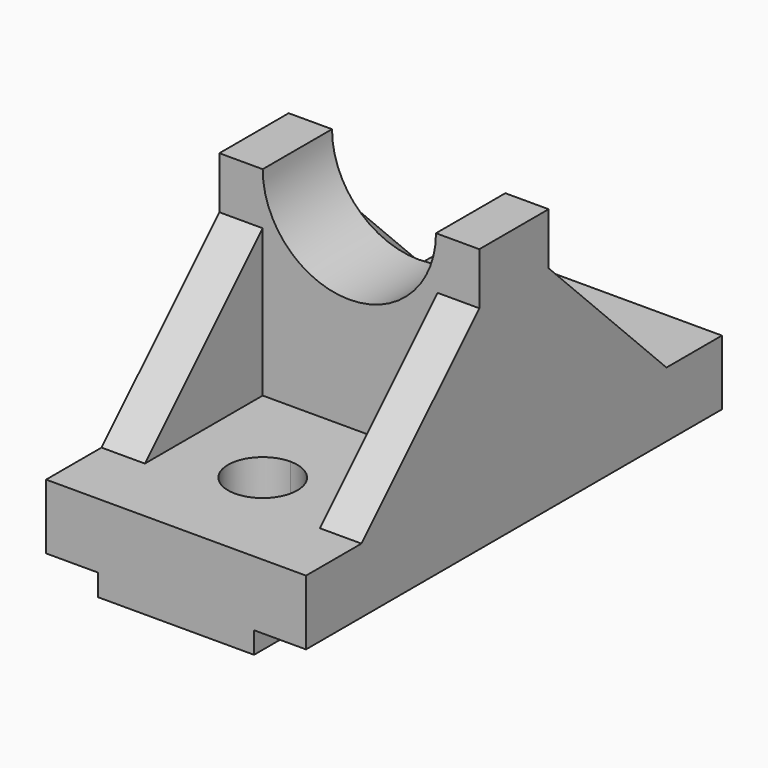
from build123d import *

# Parameters (mm, degrees)
F0_W           = 60
F0_H           = 120
F1_DEPTH       = 20
F3_W           = 12
F3_H           = 120
F4_DEPTH       = 5
F5_R           = 8
F6_DEPTH       = 45.4
F7_W           = 60
F7_H           = 20
F8_DEPTH       = 46
F11_DEPTH      = 60
F13_DEPTH      = 212.7
F13_DEPTH_BACK = 25
F15_DEPTH      = 46


with BuildPart() as f1:
    # F0 (on Top) → F1 (new body)
    with BuildSketch(Plane.XY):
        with Locations((-20.3850728273, 17.6392173767)):
            Rectangle(F0_W, F0_H)
    extrude(amount=F1_DEPTH)

    # F3 (on face) → F4 (cut)
    with BuildSketch(Plane.XY):
        with Locations((-44.3850728273, 17.6392173767)):
            Rectangle(F3_W, F3_H)
        with Locations((3.6149271727, 17.6392173767)):
            Rectangle(F3_W, F3_H)
    extrude(amount=F4_DEPTH, mode=Mode.SUBTRACT)

    # F5 (on face) → F6 (cut)
    with BuildSketch(Plane.XY.offset(20)):
        with BuildLine():
            ThreePointArc((-20.3850728273, -9.3607826233), (-28.3850728273, -17.3607826233), (-20.3850728273, -25.3607826233))
            Line((-20.3850728273, -25.3607826233), (-20.3850728273, -17.3607826233))
            Line((-20.3850728273, -17.3607826233), (-20.3850728273, -9.3607826233))
        make_face()
        with BuildLine():
            Line((-20.3850728273, -17.3607826233), (-20.3850728273, -25.3607826233))
            ThreePointArc((-20.3850728273, -25.3607826233), (-14.7282185778, -23.0176368728), (-12.3850728273, -17.3607826233))
            Line((-12.3850728273, -17.3607826233), (-20.3850728273, -17.3607826233))
        make_face()
        with BuildLine():
            Line((-20.3850728273, -9.3607826233), (-20.3850728273, -17.3607826233))
            Line((-20.3850728273, -17.3607826233), (-12.3850728273, -17.3607826233))
            ThreePointArc((-12.3850728273, -17.3607826233), (-14.7282185778, -11.7039283738), (-20.3850728273, -9.3607826233))
        make_face()
        with Locations((-20.3850728273, 52.6392173767)):
            Circle(F5_R)
    extrude(amount=-F6_DEPTH, mode=Mode.SUBTRACT)

    # F7 (on face) → F8 (join)
    with BuildSketch(Plane.XY.offset(20)):
        with Locations((-20.3850728273, 17.6392173767)):
            Rectangle(F7_W, F7_H)
    extrude(amount=F8_DEPTH)

    # F10 (on face) → F11 (join)
    with BuildSketch(Plane(origin=(-50.3850728273, 0, 0), x_dir=(0, -1, 0), z_dir=(-1, 0, 0))):
        Polygon((-7.6392173767, 20), (26.3607826233, 20), (-7.6392173767, 54), align=None)
        Polygon((-27.6392173767, 54), (-61.6392173767, 20), (-27.6392173767, 20), align=None)
    extrude(amount=-F11_DEPTH)

    # F12 (on face) → F13 (cut, two sides)
    with BuildSketch(Plane.XZ.offset(-7.6392173767)) as f13_sk:
        with BuildLine():
            ThreePointArc((-40.3850728273, 66), (-20.3850728273, 46), (-0.3850728273, 66))
            Line((-0.3850728273, 66), (-40.3850728273, 66))
        make_face()
        with BuildLine():
            Line((-40.3850728273, 66), (-0.3850728273, 66))
            ThreePointArc((-0.3850728273, 66), (-20.3850728273, 86), (-40.3850728273, 66))
        make_face()
    extrude(amount=-F13_DEPTH, mode=Mode.SUBTRACT)
    extrude(f13_sk.sketch, amount=F13_DEPTH_BACK, mode=Mode.SUBTRACT)

    # F14 (on face) → F15 (cut, through all)
    with BuildSketch(Plane.XY.offset(66)):
        Polygon((-40.3850728273, 61.7061406374), (-40.3850728273, 27.6392173767), (-0.3850728273, 27.6392173767), (0, 27.6392173767), (0, 61.7061406374), align=None)
        Polygon((-0.3850728273, 7.6392173767), (-40.3850728273, 7.6392173767), (-40.3850728273, -26.4050289989), (0, -26.4050289989), (0, 7.6392173767), align=None)
    extrude(amount=-F15_DEPTH, mode=Mode.SUBTRACT)


solid = f1.part
